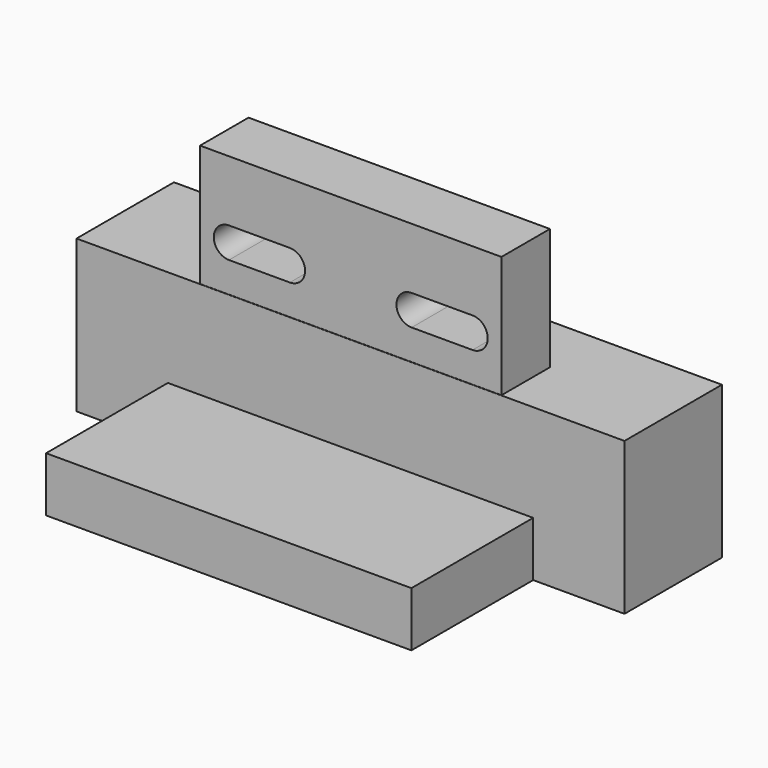
from build123d import *

# Parameters (mm, degrees)
SKETCH008_W     = 18
SKETCH008_H     = 5
PAD008_DEPTH    = 4
SKETCH010_W     = 9.9
SKETCH010_H     = 1.99
PAD009_DEPTH    = 4
POCKET006_DEPTH = 5
SKETCH014_W     = 12
SKETCH014_H     = 1.8
PAD011_DEPTH    = 5


with BuildPart() as part:
    # Sketch008 → Pad008 (new body)
    with BuildSketch(Plane(origin=(0, -10.4875, 0), x_dir=(-1, 0, 0), z_dir=(0, 1, 0))):
        with Locations((0, -1.5)):
            Rectangle(SKETCH008_W, SKETCH008_H)
    extrude(amount=-PAD008_DEPTH)

    # Sketch010 → Pad009 (new body)
    with BuildSketch(Plane(origin=(0, -10.4875, 1), x_dir=(1, 0, 0), z_dir=(0, 0, 1))):
        with Locations((0, -2.995)):
            Rectangle(SKETCH010_W, SKETCH010_H)
    extrude(amount=PAD009_DEPTH)

    # Sketch013 → Pocket006 (cut)
    with BuildSketch(Plane(origin=(0, -12.4875, 0), x_dir=(-1, 0, 0), z_dir=(0, 1, 0))):
        with BuildLine():
            ThreePointArc((2, 3), (1.5, 2.5), (2, 2))
            Line((2, 2), (4, 2))
            ThreePointArc((4, 2), (4.5, 2.5), (4, 3))
            Line((2, 3), (4, 3))
        make_face()
        with BuildLine():
            ThreePointArc((-4, 3), (-4.5, 2.5), (-4, 2))
            Line((-4, 2), (-2, 2))
            ThreePointArc((-2, 2), (-1.5, 2.5), (-2, 3))
            Line((-4, 3), (-2, 3))
        make_face()
    extrude(amount=-POCKET006_DEPTH, mode=Mode.SUBTRACT)

    # Sketch014 → Pad011 (new body)
    with BuildSketch(Plane(origin=(0, -14.4875, 0), x_dir=(-1, 0, 0), z_dir=(0, -1, 0))):
        with Locations((0, 3.1)):
            Rectangle(SKETCH014_W, SKETCH014_H)
    extrude(amount=PAD011_DEPTH)


solid = part.part
